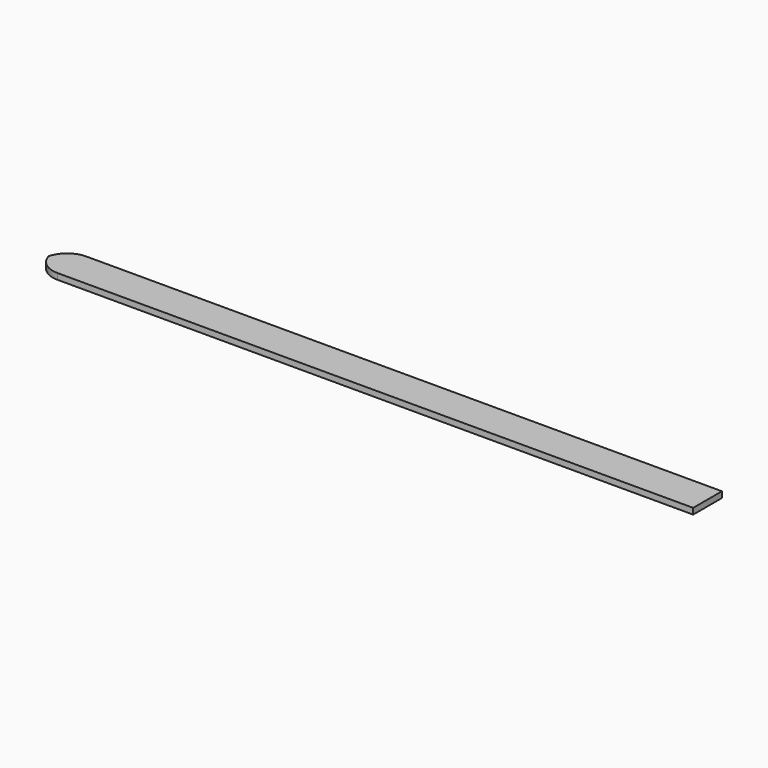
from build123d import *

# Parameters (mm, degrees)
F1_DEPTH = 0.5


with BuildPart() as f1:
    # F0 (on Top) → F1 (new body)
    with BuildSketch(Plane.XY):
        with BuildLine():
            Line((27.5, -1.5), (27.5, 1.5))
            Line((27.5, 1.5), (-25.563508, 1.5))
            ThreePointArc((-25.563508, 1.5), (-26.788253, 1.081139), (-27.5, 0))
            ThreePointArc((-27.5, 0), (-26.788253, -1.081139), (-25.563508, -1.5))
            Line((-25.563508, -1.5), (27.5, -1.5))
        make_face()
    extrude(amount=F1_DEPTH)


solid = f1.part
